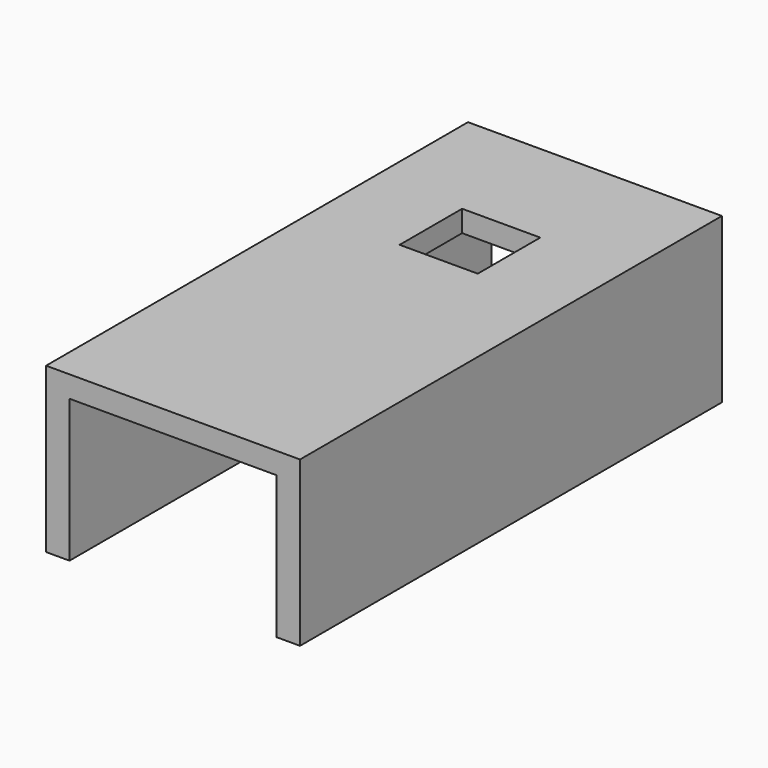
from build123d import *

# Parameters (mm, degrees)
SKETCH006_W      = 20
SKETCH006_H      = 20
EXTRUDE009_DEPTH = 15
EXTRUDE007_DEPTH = 135


with BuildPart() as extrude009:
    # Sketch006 (on Face2 of Extrude007) → Extrude009 (new body, symmetric)
    with BuildSketch(Plane(origin=(0, 0, 39), x_dir=(1, 0, 0), z_dir=(0, 0, -1))):
        with Locations((0, -231.482224)):
            Rectangle(SKETCH006_W, SKETCH006_H)
    extrude(amount=EXTRUDE009_DEPTH, both=True)


with BuildPart() as extrude009_1:
    # Extrude009 placement: moved
    add(extrude009.part.moved(Location((0, 0, 39))))


with BuildPart() as u067:
    # Sketch009 (on Face6 of Extrude006) → Extrude007 (new body)
    with BuildSketch(Plane(origin=(0, 136.482224, 0), x_dir=(-1, 0, 0), z_dir=(0, 1, 0))):
        Polygon((-32.5, 39), (-32.5, 81), (32.5, 81), (32.5, 39), (26.5, 39), (26.5, 75.5), (-26.5, 75.5), (-26.5, 39), align=None)
    extrude(amount=EXTRUDE007_DEPTH)

    # Cut002: cut Extrude009
    add(extrude009_1.part, mode=Mode.SUBTRACT)


solid = u067.part
